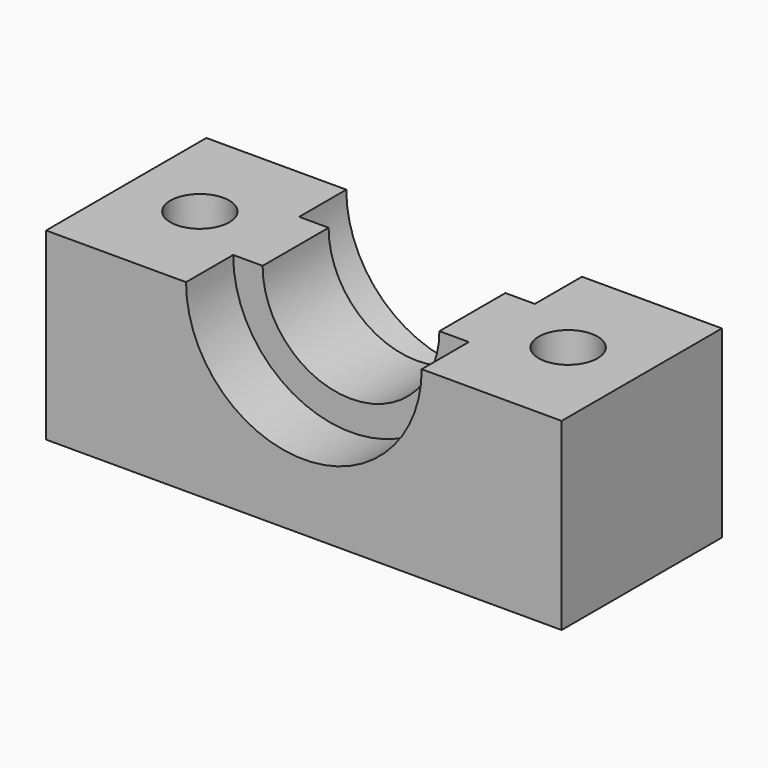
from build123d import *

# Parameters (mm, degrees)
SKETCH_W        = 35
SKETCH_H        = 13.6
PAD_DEPTH       = 12.5
SKETCH001_R     = 6
POCKET_DEPTH    = 13.601
SKETCH002_R     = 2
POCKET001_DEPTH = 12.501
SKETCH003_R     = 8
POCKET002_DEPTH = 4
SKETCH004_R     = 8
POCKET003_DEPTH = 4


with BuildPart() as part:
    # Sketch → Pad (new body)
    with BuildSketch(Plane.XY):
        Rectangle(SKETCH_W, SKETCH_H)
    extrude(amount=PAD_DEPTH)

    # Sketch001 (on Face3 of Pad) → Pocket (cut, through all)
    with BuildSketch(Plane.XZ.offset(6.8)):
        with Locations((0, 12.5)):
            Circle(SKETCH001_R)
    extrude(amount=-POCKET_DEPTH, mode=Mode.SUBTRACT)

    # Sketch002 (on Face2 of Pocket) → Pocket001 (cut, through all)
    with BuildSketch(Plane(origin=(0, 0, 0), x_dir=(1, 0, 0), z_dir=(0, 0, -1))):
        with Locations((-12.5, 0)):
            Circle(SKETCH002_R)
        with Locations((12.5, 0)):
            Circle(SKETCH002_R)
    extrude(amount=-POCKET001_DEPTH, mode=Mode.SUBTRACT)

    # Sketch003 (on Face8 of Pocket001) → Pocket002 (cut)
    with BuildSketch(Plane.XZ.offset(6.8)):
        with Locations((0, 12.5)):
            Circle(SKETCH003_R)
    extrude(amount=-POCKET002_DEPTH, mode=Mode.SUBTRACT)

    # Sketch004 (on Face1 of Pocket002) → Pocket003 (cut)
    with BuildSketch(Plane(origin=(0, 6.8, 0), x_dir=(-1, 0, 0), z_dir=(0, 1, 0))):
        with Locations((0, 12.5)):
            Circle(SKETCH004_R)
    extrude(amount=-POCKET003_DEPTH, mode=Mode.SUBTRACT)


solid = part.part
